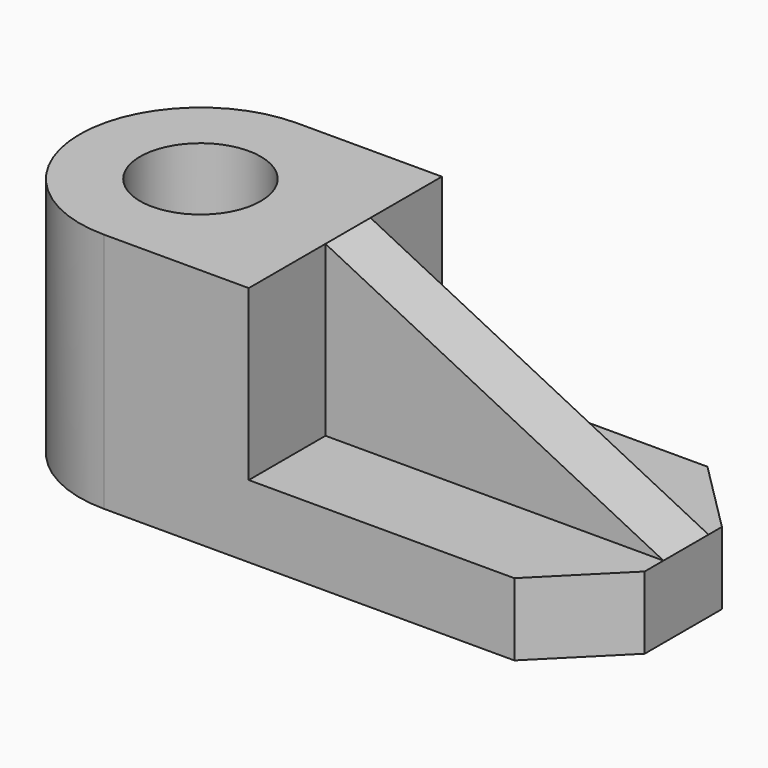
from build123d import *

# Parameters (mm, degrees)
F0_R     = 19.05
F0_W     = 106.68
F0_H     = 17.78
F1_DEPTH = 76.2
F2_DEPTH = 22.86
F4_DEPTH = 25.4


with BuildPart() as f1:
    # F0 (on Top) → F1 (new body)
    with BuildSketch(Plane.XY):
        with BuildLine():
            Line((45.72, 38.1), (0, 38.1))
            ThreePointArc((0, 38.1), (-38.1, 0), (0, -38.1))
            Line((0, -38.1), (45.72, -38.1))
            Line((45.72, -38.1), (45.72, -7.828155))
            Line((45.72, -7.828155), (45.72, 9.951845))
            Line((45.72, 9.951845), (45.72, 38.1))
        make_face()
        Circle(F0_R, mode=Mode.SUBTRACT)
        with Locations((99.06, 1.061845)):
            Rectangle(F0_W, F0_H)
    extrude(amount=F1_DEPTH)

    # F0 (on Top) → F2 (join)
    with BuildSketch(Plane.XY):
        Polygon((45.72, -7.828155), (45.72, -38.1), (129.54, -38.1), (152.4, -15.24), (152.4, -7.828155), align=None)
        Polygon((129.54, 38.1), (45.72, 38.1), (45.72, 9.951845), (152.4, 9.951845), (152.4, 15.24), align=None)
    extrude(amount=F2_DEPTH)

    # F3 (on face) → F4 (cut)
    with BuildSketch(Plane.XZ.offset(7.828155)):
        Polygon((152.4, 76.2), (45.72, 76.2), (152.4, 22.86), align=None)
    extrude(amount=-F4_DEPTH, mode=Mode.SUBTRACT)


solid = f1.part
